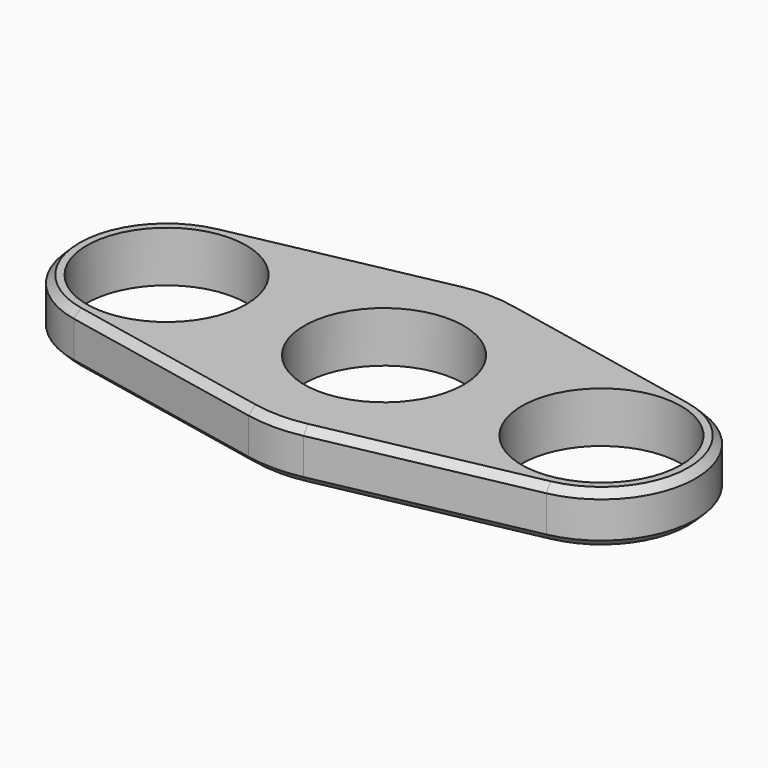
from build123d import *

# Parameters (mm, degrees)
F0_R     = 11
F1_DEPTH = 7
F2_SIZE  = 1


with BuildPart() as f1:
    # F0 (on Top) → F1 (new body)
    with BuildSketch(Plane.XY):
        with BuildLine():
            Line((3.8, -18.616122), (32.6, -12.737347))
            ThreePointArc((32.6, -12.737347), (43, 0), (32.6, 12.737347))
            Line((32.6, 12.737347), (3.8, 18.616122))
            ThreePointArc((3.8, 18.616122), (0, 19), (-3.8, 18.616122))
            Line((-3.8, 18.616122), (-32.6, 12.737347))
            ThreePointArc((-32.6, 12.737347), (-43, 0), (-32.6, -12.737347))
            Line((-32.6, -12.737347), (-3.8, -18.616122))
            ThreePointArc((-3.8, -18.616122), (0, -19), (3.8, -18.616122))
        make_face()
        with Locations((-30, 0)):
            Circle(F0_R, mode=Mode.SUBTRACT)
        Circle(F0_R, mode=Mode.SUBTRACT)
        with Locations((30, 0)):
            Circle(F0_R, mode=Mode.SUBTRACT)
    extrude(amount=F1_DEPTH)

    # F2
    f2_edges = [f1.edges().sort_by_distance(p)[0] for p in [
        (43, 0, 7),
        (43, 0, 0),
    ]]
    chamfer(f2_edges, length=F2_SIZE)


solid = f1.part
